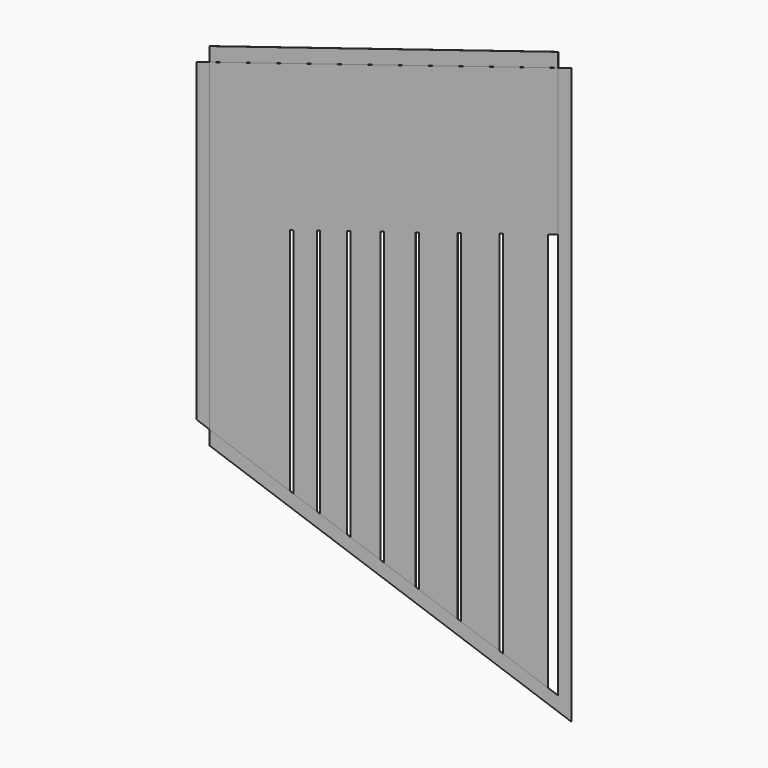
from build123d import *

# Parameters (mm, degrees)
F1_DEPTH = 0.254
F2_DEPTH = 0.127


with BuildPart() as f1:
    # F0 (on Front) → F1 (new body)
    with BuildSketch(Plane.XZ):
        Polygon((-165.1, 96.6560714286), (-165.1, -70.8848640166), (-88.9, -97.3012268737), (-88.9, 120.3325), align=None)
        Polygon((-85.725, 121.3190178571), (-85.725, -98.4019086594), (-63.5, -106.1066811594), (-63.5, 128.2246428571), align=None)
        Polygon((-60.325, 129.2111607143), (-60.325, -107.2073629451), (-34.925, -116.0128172308), (-34.925, 137.1033035714), align=None)
        Polygon((-31.75, 138.0898214286), (-31.75, -117.1134990166), (-3.175, -127.019635088), (-3.175, 146.9684821429), align=None)
        Polygon((0, 147.955), (0, -128.1203168737), (30.1625, -138.576793838), (30.1625, 157.3269196429), align=None)
        Polygon((33.3375, -139.6774756237), (69.85, -152.3353161594), (69.85, 169.6583928571), (33.3375, 158.3134375), align=None)
        Polygon((112.7125, -167.1945202666), (155.575, -182.0537243737), (155.575, 196.294375), (112.7125, 182.9763839286), align=None)
        Polygon((73.025, -153.4359979451), (109.5375, -166.0938384808), (109.5375, 181.9898660714), (73.025, 170.6449107143), align=None)
        Polygon((-165.1, 235.7571436628), (-165.1, 96.6560714286), (-88.9, 120.3325), (-85.725, 121.3190178571), (-63.5, 128.2246428571), (-60.325, 129.2111607143), (-34.925, 137.1033035714), (-31.75, 138.0898214286), (-3.175, 146.9684821429), (0, 147.955), (30.1625, 157.3269196429), (33.3375, 158.3134375), (69.85, 169.6583928571), (73.025, 170.6449107143), (109.5375, 181.9898660714), (112.7125, 182.9763839286), (155.575, 196.294375), (158.75, 197.2808928571), (165.1, 199.2539285714), (165.1, 338.3550008057), align=None)
    extrude(amount=F1_DEPTH)

    # F0 (on Front) → F2 (join)
    with BuildSketch(Plane.XZ):
        Polygon((-177.8, 231.8110722342), (-177.8, 92.71), (-165.1, 96.6560714286), (-165.1, 235.7571436628), align=None)
        Polygon((-165.1, 249.0560714286), (-165.1, 235.7571436628), (165.1, 338.3550008057), (165.1, 351.6539285714), align=None)
        Polygon((177.8, 342.3010722342), (165.1, 338.3550008057), (165.1, 199.2539285714), (177.8, 203.2), align=None)
        Polygon((-177.8, 92.71), (-177.8, 0), (-177.8, -66.4821368737), (-165.1, -70.8848640166), (-165.1, 96.6560714286), align=None)
        Polygon((-88.9, -97.3012268737), (-165.1, -70.8848640166), (-165.1, -84.3263671429), (155.575, -195.4952275), (155.575, -182.0537243737), (112.7125, -167.1945202666), (109.5375, -166.0938384808), (73.025, -153.4359979451), (69.85, -152.3353161594), (33.3375, -139.6774756237), (30.1625, -138.576793838), (0, -128.1203168737), (-3.175, -127.019635088), (-31.75, -117.1134990166), (-34.925, -116.0128172308), (-60.325, -107.2073629451), (-63.5, -106.1066811594), (-85.725, -98.4019086594), align=None)
        Polygon((177.8, 203.2), (165.1, 199.2539285714), (165.1, -185.3557697308), (177.8, -189.7584968737), (177.8, 0), align=None)
        Polygon((155.575, -182.0537243737), (155.575, -195.4952275), (165.1, -198.7972728571), (165.1, -185.3557697308), (158.75, -183.1544061594), align=None)
        Polygon((165.1, -185.3557697308), (165.1, -198.7972728571), (177.8, -203.2), (177.8, -189.7584968737), align=None)
    extrude(amount=F2_DEPTH)


solid = f1.part
